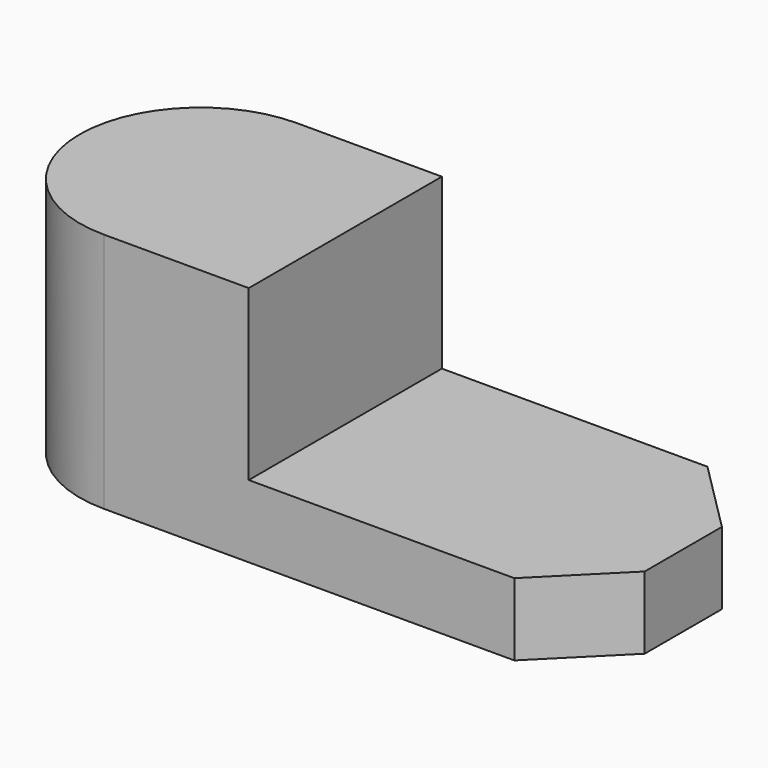
from build123d import *

# Parameters (mm, degrees)
F1_DEPTH = 9
F2_DEPTH = 30


with BuildPart() as f1:
    # F0 (on Top) → F1 (new body)
    with BuildSketch(Plane.XY):
        with BuildLine():
            Line((18, 30), (0, 30))
            ThreePointArc((0, 30), (-15, 15), (0, 0))
            Line((0, 0), (18, 0))
            Line((18, 0), (18, 30))
        make_face()
        Polygon((51, 30), (18, 30), (18, 0), (51, 0), (60, 9), (60, 21), align=None)
    extrude(amount=F1_DEPTH)

    # F0 (on Top) → F2 (join)
    with BuildSketch(Plane.XY):
        with BuildLine():
            Line((18, 30), (0, 30))
            ThreePointArc((0, 30), (-15, 15), (0, 0))
            Line((0, 0), (18, 0))
            Line((18, 0), (18, 30))
        make_face()
    extrude(amount=F2_DEPTH)


solid = f1.part
